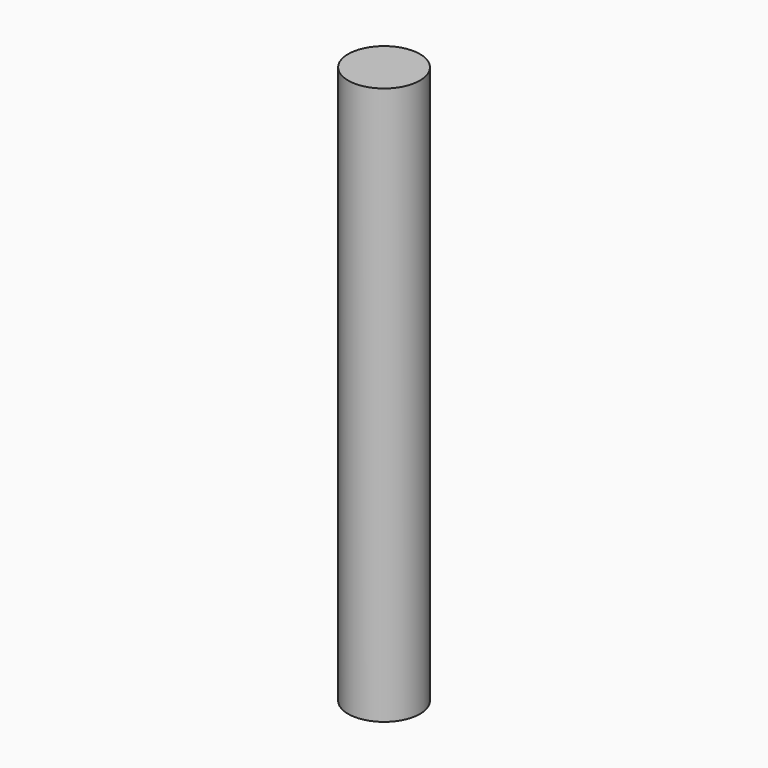
from build123d import *

# Parameters (mm, degrees)
CYLINDER_R     = 0.9652
CYLINDER_DEPTH = 15


with BuildPart() as part:
    # Cylinder → Cylinder (new body)
    with BuildSketch(Plane.XY.offset(-2.5)):
        Circle(CYLINDER_R)
    extrude(amount=CYLINDER_DEPTH)


solid = part.part
